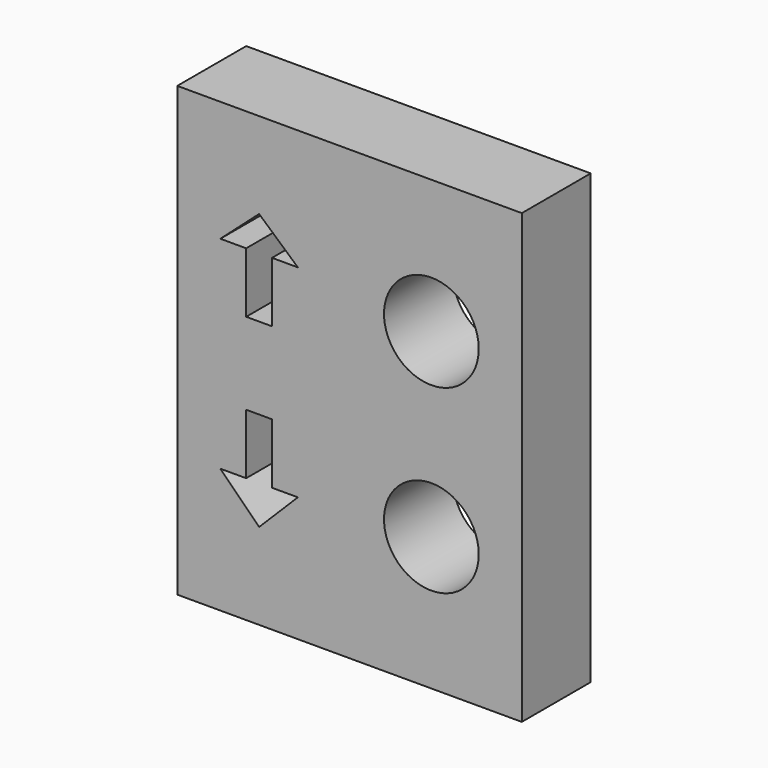
from build123d import *

# Parameters (mm, degrees)
F0_W     = 101.6
F0_H     = 132.08
F0_R     = 13.97
F1_DEPTH = 25.4


with BuildPart() as f1:
    # F0 (on Front) → F1 (new body)
    with BuildSketch(Plane.XZ):
        with Locations((-15.28126, 11.43)):
            Rectangle(F0_W, F0_H)
        Polygon((-41.95126, -29.21), (-53.38126, -17.78), (-45.76126, -17.78), (-45.76126, 0), (-38.14126, 0), (-38.14126, -17.78), (-30.52126, -17.78), align=None, mode=Mode.SUBTRACT)
        with Locations((8.84874, -15.24)):
            Circle(F0_R, mode=Mode.SUBTRACT)
        Polygon((-53.38126, 41.91), (-41.95126, 52.07), (-30.52126, 41.91), (-38.14126, 41.91), (-38.14126, 24.13), (-45.76126, 24.13), (-45.76126, 41.91), align=None, mode=Mode.SUBTRACT)
        with Locations((8.84874, 38.1)):
            Circle(F0_R, mode=Mode.SUBTRACT)
    extrude(amount=F1_DEPTH)


solid = f1.part
